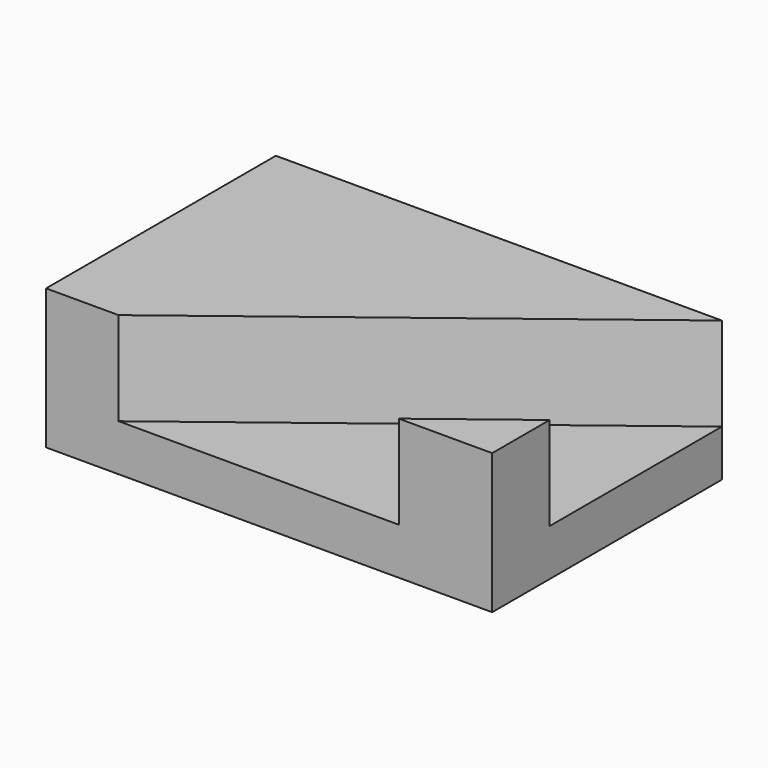
from build123d import *

# Parameters (mm, degrees)
F1_DEPTH = 12.7
F2_DEPTH = 38.1
F3_DEPTH = 38.1


with BuildPart() as f1:
    # F0 (on Top) → F1 (new body)
    with BuildSketch(Plane.XY):
        Polygon((60.671091, -19.528509), (60.671091, 39.057016), (-40.952984, -39.057016), (35.265073, -39.057016), align=None)
    extrude(amount=F1_DEPTH)

    # F0 (on Top) → F2 (join)
    with BuildSketch(Plane.XY):
        Polygon((60.671091, -39.057016), (60.671091, -19.528509), (35.265073, -39.057016), align=None)
    extrude(amount=F2_DEPTH)

    # F0 (on Top) → F3 (join)
    with BuildSketch(Plane.XY):
        Polygon((-40.952984, -39.057016), (60.671091, 39.057016), (-60.671091, 39.057016), (-60.671091, -39.057016), align=None)
    extrude(amount=F3_DEPTH)


solid = f1.part
